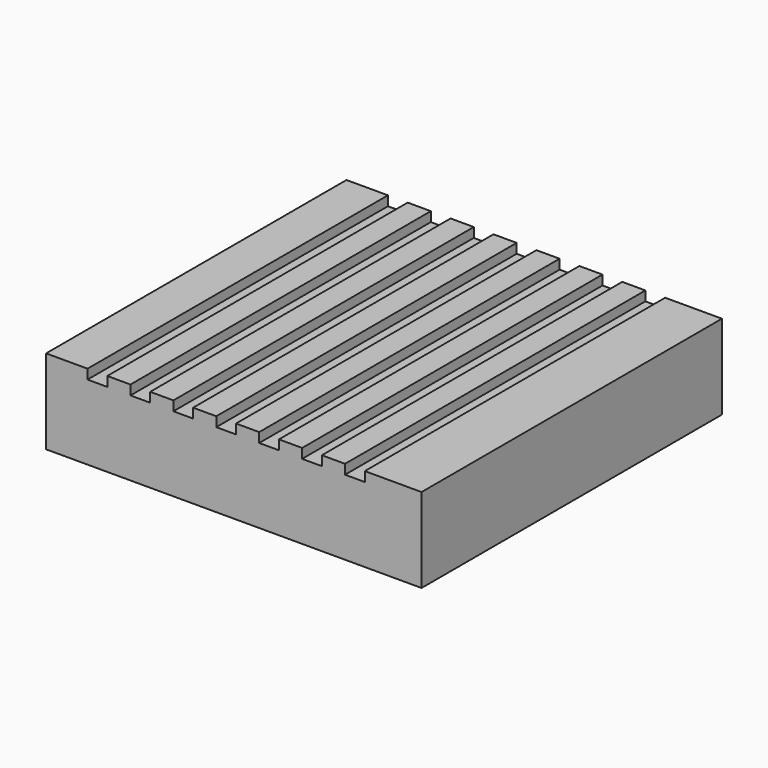
from build123d import *

# Parameters (mm, degrees)
F0_W     = 40
F0_H     = 9
F1_DEPTH = 40
F2_W     = 2.102967
F2_H     = 1.02382
F3_DEPTH = 40.001


with BuildPart() as f1:
    # F0 (on Front) → F1 (new body)
    with BuildSketch(Plane.XZ):
        with Locations((20, 4.5)):
            Rectangle(F0_W, F0_H)
    extrude(amount=F1_DEPTH)

    # F2 (on face) → F3 (cut, through all)
    with BuildSketch(Plane.XZ.offset(40)):
        with Locations((5.46897, 8.48809)):
            Rectangle(F2_W, F2_H)
        with Locations((10.040971, 8.48809)):
            Rectangle(F2_W, F2_H)
        with Locations((14.61297, 8.48809)):
            Rectangle(F2_W, F2_H)
        with Locations((19.18497, 8.48809)):
            Rectangle(F2_W, F2_H)
        with Locations((23.75697, 8.48809)):
            Rectangle(F2_W, F2_H)
        with Locations((28.32897, 8.48809)):
            Rectangle(F2_W, F2_H)
        with Locations((32.90097, 8.48809)):
            Rectangle(F2_W, F2_H)
    extrude(amount=-F3_DEPTH, mode=Mode.SUBTRACT)


solid = f1.part
